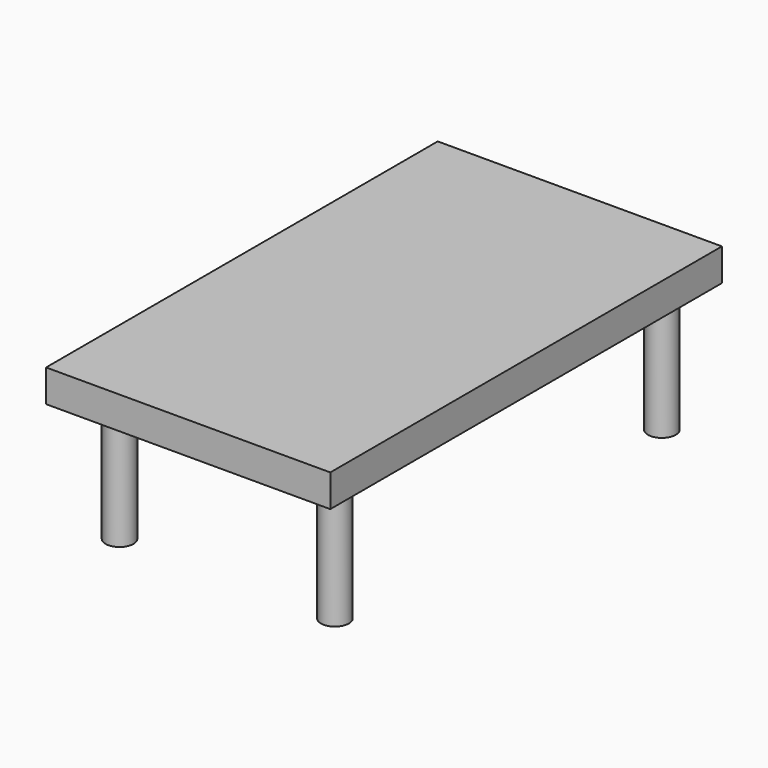
from build123d import *

# Parameters (mm, degrees)
F0_W          = 82.1338742971
F0_H          = 9.3445703387
F1_DEPTH      = 68.326
F1_DEPTH_BACK = 73.152
F2_R          = 4.0184012563
F3_DEPTH      = 45.72


with BuildPart() as f1:
    # F0 (on Front) → F1 (new body, two sides)
    with BuildSketch(Plane.XZ) as f1_sk:
        with Locations((0, 41.4357967675)):
            Rectangle(F0_W, F0_H)
    extrude(amount=-F1_DEPTH)
    extrude(f1_sk.sketch, amount=F1_DEPTH_BACK)

    # F2 (on Top) → F3 (join)
    with BuildSketch(Plane.XY):
        with Locations((-31.1264377087, 59.0454228222)):
            Circle(F2_R)
        with Locations((31.1264377087, 59.0454228222)):
            Circle(F2_R)
        with Locations((-31.1264377087, -59.0454228222)):
            Circle(F2_R)
        with Locations((31.1264377087, -59.0454228222)):
            Circle(F2_R)
    extrude(amount=F3_DEPTH)


solid = f1.part
